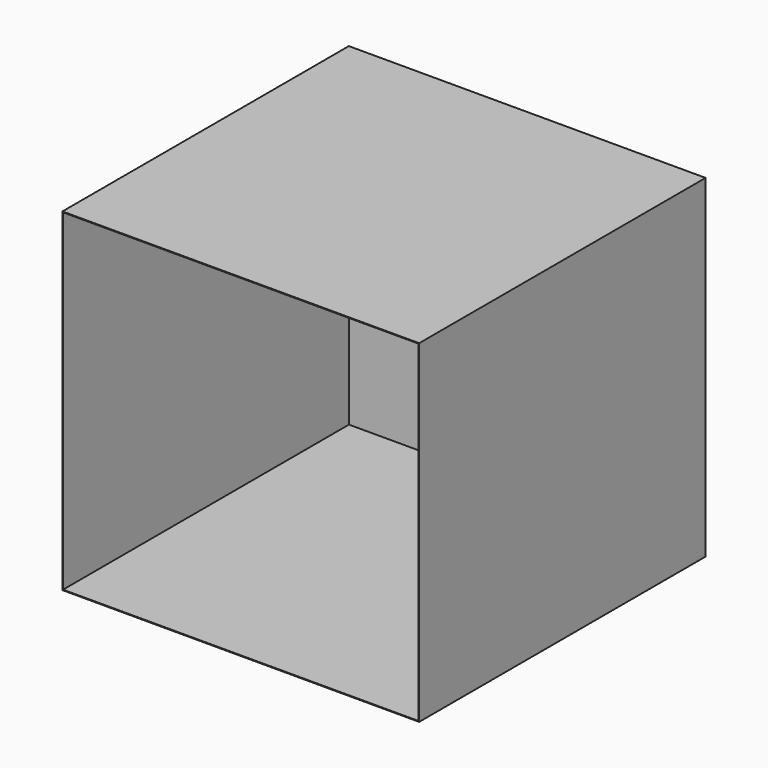
from build123d import *

# Parameters (mm, degrees)
F0_W     = 1400
F0_H     = 1308.4111795891
F1_DEPTH = 20
F2_DEPTH = 1385
F3_T     = -2.5


with BuildPart() as f1:
    # F0 (on Front) → F1 (new body)
    with BuildSketch(Plane.XZ):
        with Locations((-30.7828634977, 21.6243253089)):
            Rectangle(F0_W, F0_H)
    extrude(amount=F1_DEPTH)

    # F2 (add): faces of the model
    f2_faces = [f1.faces().sort_by_distance(p)[0] for p in [
        (-30.7828634977, -20, 21.6243253089),
        (-30.7828634977, 0, 21.6243253089),
    ]]
    extrude(f2_faces, amount=-F2_DEPTH, dir=(0, -1, 0))

    # F3
    f3_openings = [f1.faces().sort_by_distance(p)[0] for p in [
        (-30.782863, -20, 21.624325),
    ]]
    offset(amount=F3_T, openings=f3_openings)


solid = f1.part
